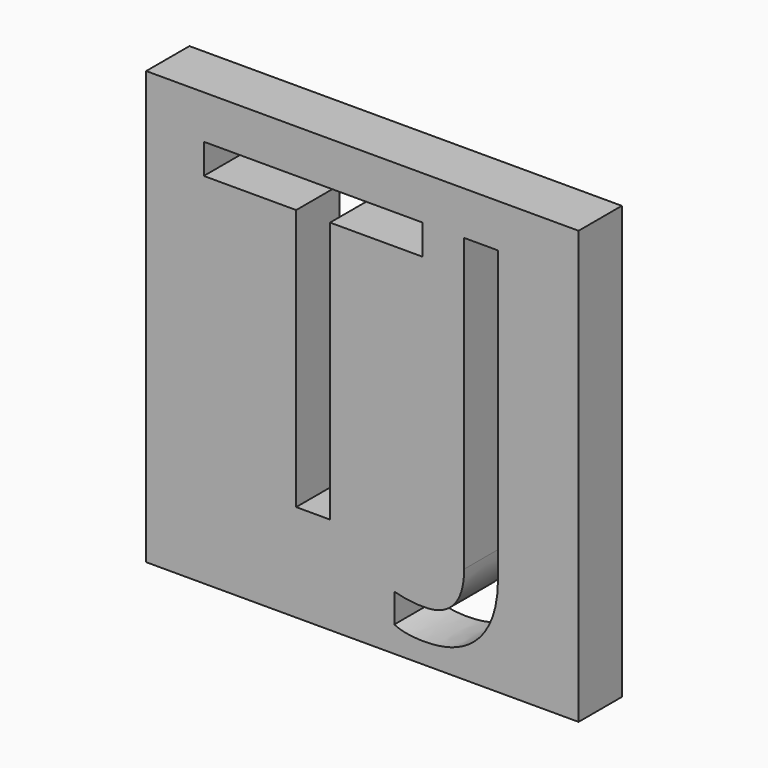
from build123d import *

# Parameters (mm, degrees)
F0_W     = 50.8
F0_H     = 50.8
F1_DEPTH = 6.35


with BuildPart() as f1:
    # F0 (on Front) → F1 (new body)
    with BuildSketch(Plane.XZ):
        with Locations((37.5089729323, 18.5584027804)):
            Rectangle(F0_W, F0_H)
        with BuildLine():
            add(Edge.make_bspline(
                [(51.1975283348, -1.984053429), (48.947971161, -4.4323214865), (44.7263021982, -4.4323214865)],
                knots=[0, 0, 0, 1, 1, 1], degree=2))
            add(Edge.make_bspline(
                [(44.7263021982, -4.4323214865), (42.5292346918, -4.4323214865), (41.2619841505, -3.8024454778)],
                knots=[0, 0, 0, 1, 1, 1], degree=2))
            Line((41.2619841505, -3.8024454778), (41.2619841505, -0.4056141454))
            add(Edge.make_bspline(
                [(41.2619841505, -0.4056141454), (42.9266564591, -0.870522628), (44.7263021982, -0.870522628)],
                knots=[0, 0, 0, 1, 1, 1], degree=2))
            add(Edge.make_bspline(
                [(44.7263021982, -0.870522628), (47.0508446111, -0.870522628), (48.258106961, 0.5354506056)],
                knots=[0, 0, 0, 1, 1, 1], degree=2))
            add(Edge.make_bspline(
                [(48.258106961, 0.5354506056), (49.4653693109, 1.9414238393), (49.4653693109, 4.5884027804)],
                knots=[0, 0, 0, 1, 1, 1], degree=2))
            Line((49.4653693109, 4.5884027804), (49.4653693109, 38.8491585372))
            Line((49.4653693109, 38.8491585372), (53.4470855085, 38.8491585372))
            Line((53.4470855085, 38.8491585372), (53.4470855085, 4.9183378326))
            add(Edge.make_bspline(
                [(53.4470855085, 4.9183378326), (53.4470855085, 0.4642146285), (51.1975283348, -1.984053429)],
                knots=[0, 0, 0, 1, 1, 1], degree=2))
        make_face(mode=Mode.SUBTRACT)
        Polygon((33.7109705705, 35.3098552504), (33.7109705705, 4.5884027804), (29.7292543729, 4.5884027804), (29.7292543729, 35.3098552504), (18.8788902714, 35.3098552504), (18.8788902714, 38.8491585372), (44.5613346721, 38.8491585372), (44.5613346721, 35.3098552504), align=None, mode=Mode.SUBTRACT)
    extrude(amount=F1_DEPTH)


solid = f1.part
